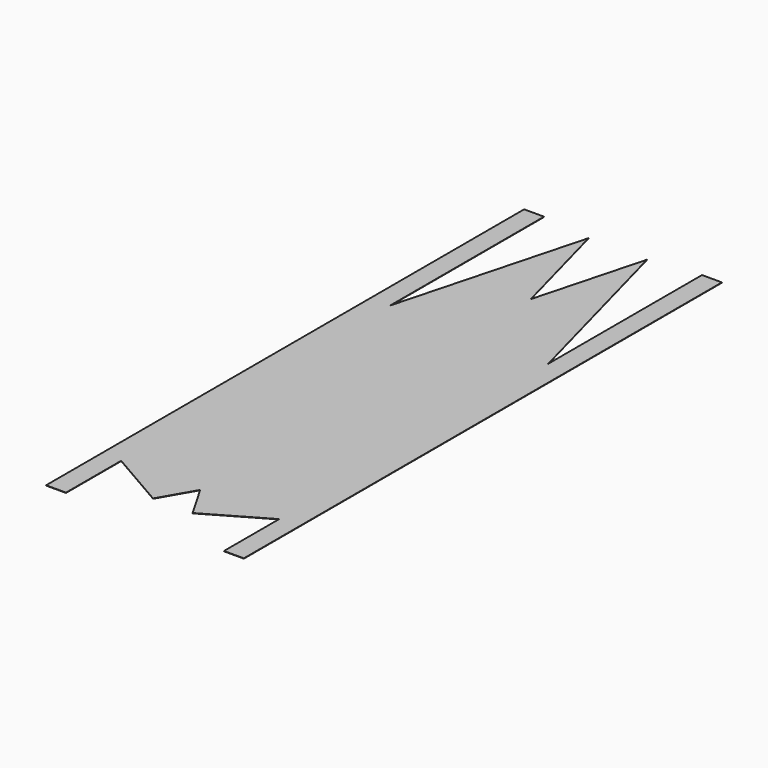
from build123d import *

# Parameters (mm, degrees)
F0_W     = 50
F0_H     = 173.205
F0_H_2   = 843.832
F0_H_3   = 482.963
F1_DEPTH = 0.4


with BuildPart() as f1:
    # F0 (on Top) → F1 (new body, symmetric)
    with BuildSketch(Plane.XY):
        with Locations((25, 86.6025)):
            Rectangle(F0_W, F0_H)
        with Locations((25, 595.121)):
            Rectangle(F0_W, F0_H_2)
        Polygon((50, 1017.037), (50, 173.205), (248.2458122439, 173.205), (248.2458122439, 1210.1864260022), align=None)
        Polygon((248.2458122439, 173.205), (50, 173.205), (198.6843591829, 87.3620452015), align=None)
        with Locations((25, 1258.5185)):
            Rectangle(F0_W, F0_H_3)
        Polygon((175.0000224798, 1483.543434842), (50, 1017.037), (248.2458122439, 1210.1864260022), align=None)
        Polygon((446.4916244877, 173.205), (248.2458122439, 173.205), (297.8072653048, 87.3620452015), align=None)
        Polygon((248.2458122439, 1210.1864260022), (248.2458122439, 173.205), (446.4916244877, 173.205), (446.4916244877, 1017.037), align=None)
        Polygon((321.4916020079, 1483.543434842), (248.2458122439, 1210.1864260022), (446.4916244877, 1017.037), align=None)
        with Locations((471.4916244877, 595.121)):
            Rectangle(F0_W, F0_H_2)
        with Locations((471.4916244877, 86.6025)):
            Rectangle(F0_W, F0_H)
        with Locations((471.4916244877, 1258.5185)):
            Rectangle(F0_W, F0_H_3)
    extrude(amount=F1_DEPTH, both=True)


solid = f1.part
